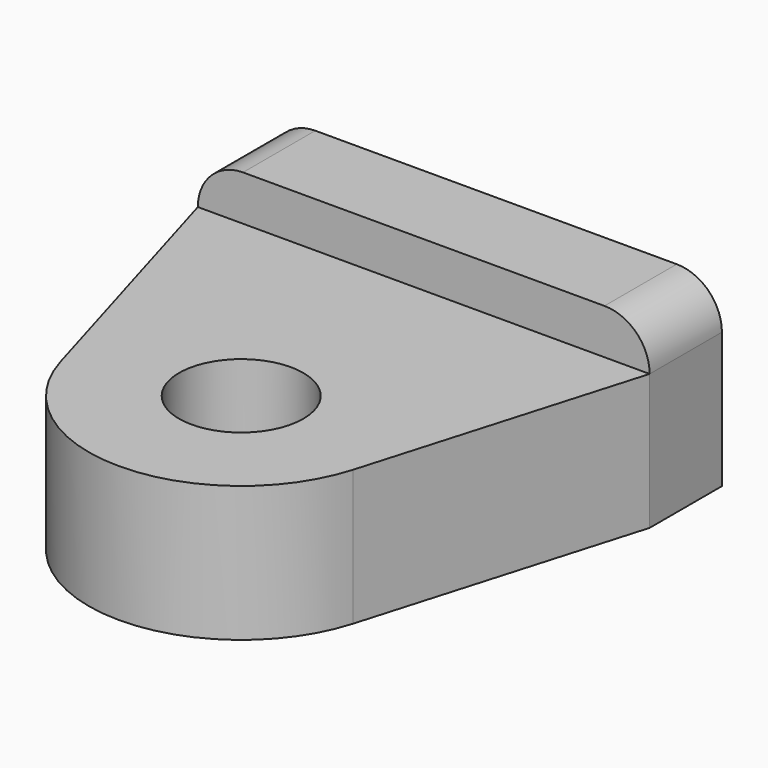
from build123d import *

# Parameters (mm, degrees)
F0_R     = 2.75
F1_DEPTH = 6
F0_W     = 20
F0_H     = 4
F2_DEPTH = 8
F3_R     = 1.25
F4_DEPTH = 6
F5_R     = 2


with BuildPart() as f1:
    # F0 (on Top) → F1 (new body)
    with BuildSketch(Plane.XY):
        with BuildLine():
            Line((-10, 10.1), (-6.476664, -1.9014))
            ThreePointArc((-6.476664, -1.9014), (0, -6.75), (6.476664, -1.9014))
            Line((6.476664, -1.9014), (10, 10.1))
            Line((10, 10.1), (-10, 10.1))
        make_face()
        Circle(F0_R, mode=Mode.SUBTRACT)
    extrude(amount=F1_DEPTH)

    # F0 (on Top) → F2 (join)
    with BuildSketch(Plane.XY):
        with Locations((0, 12.1)):
            Rectangle(F0_W, F0_H)
    extrude(amount=F2_DEPTH)

    # F3 (on face) → F4 (cut)
    with BuildSketch(Plane(origin=(0, 14.1, 0), x_dir=(-1, 0, 0), z_dir=(0, 1, 0))):
        with Locations((-4.75, 3)):
            Circle(F3_R)
        with Locations((4.75, 3)):
            Circle(F3_R)
    extrude(amount=-F4_DEPTH, mode=Mode.SUBTRACT)

    # F5
    f5_edges = [f1.edges().sort_by_distance(p)[0] for p in [
        (-10, 12.1, 8),
        (10, 12.1, 8),
    ]]
    fillet(f5_edges, radius=F5_R)


solid = f1.part
